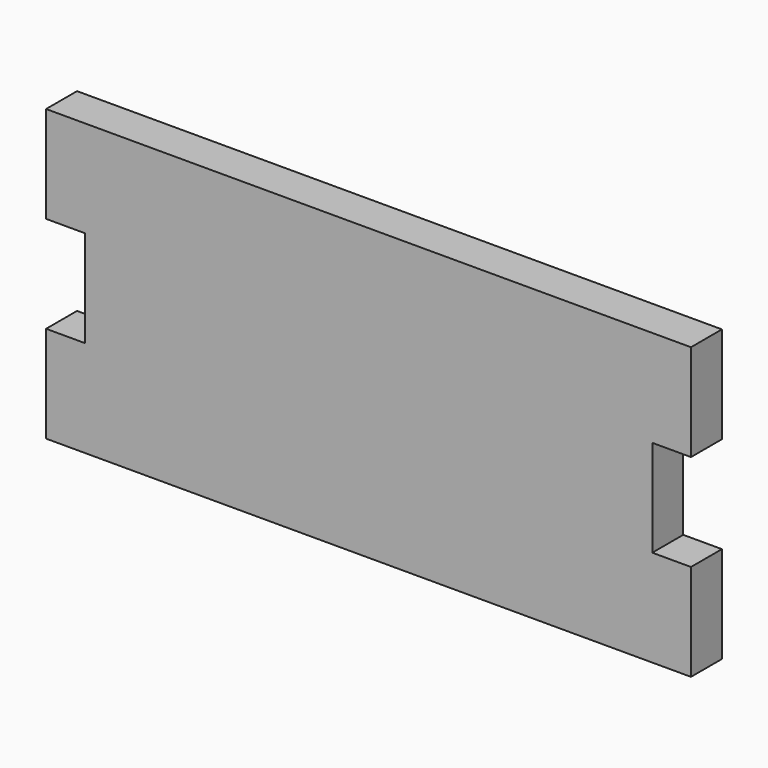
from build123d import *

# Parameters (mm, degrees)
F1_DEPTH = 6


with BuildPart() as f1:
    # F0 (on Front) → F1 (new body, symmetric)
    with BuildSketch(Plane.XZ):
        Polygon((0, 30), (0, 0), (100, 0), (100, 90), (12, 90), (0, 90), (0, 60), (12, 60), (12, 30), align=None)
        Polygon((100, 90), (100, 0), (200, 0), (200, 30), (188, 30), (188, 60), (200, 60), (200, 90), (188, 90), align=None)
    extrude(amount=F1_DEPTH, both=True)


solid = f1.part
